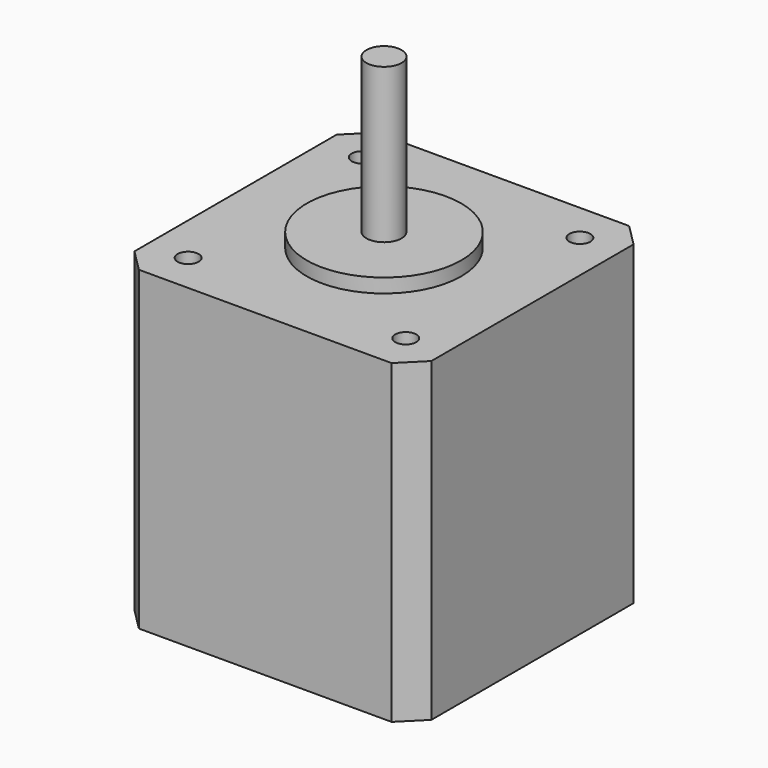
from build123d import *

# Parameters (mm, degrees)
PAD_DEPTH    = 40
SKETCH002_R  = 1.5
PAD001_DEPTH = 5
SKETCH003_R  = 11
PAD002_DEPTH = 2
SKETCH004_R  = 2.5
PAD003_DEPTH = 22


with BuildPart() as part:
    # Sketch001 → Pad (new body)
    with BuildSketch(Plane.XY):
        Polygon((3.15, 0), (0, 3.15), (0, 39.15), (3.15, 42.3), (39.15, 42.3), (42.3, 39.15), (42.3, 3.15), (39.15, 0), align=None)
    extrude(amount=PAD_DEPTH)

    # Sketch002 → Pad001 (new body)
    with BuildSketch(Plane.XY.offset(40)):
        Polygon((3.15, 0), (0, 3.15), (0, 39.15), (3.15, 42.3), (39.15, 42.3), (42.3, 39.15), (42.3, 3.15), (39.15, 0), align=None)
        with Locations((5.65, 36.65)):
            Circle(SKETCH002_R, mode=Mode.SUBTRACT)
        with Locations((36.65, 36.65)):
            Circle(SKETCH002_R, mode=Mode.SUBTRACT)
        with Locations((36.65, 5.65)):
            Circle(SKETCH002_R, mode=Mode.SUBTRACT)
        with Locations((5.65, 5.65)):
            Circle(SKETCH002_R, mode=Mode.SUBTRACT)
    extrude(amount=PAD001_DEPTH)

    # Sketch003 → Pad002 (new body)
    with BuildSketch(Plane.XY.offset(45)):
        with Locations((21.15, 21.15)):
            Circle(SKETCH003_R)
    extrude(amount=PAD002_DEPTH)

    # Sketch004 → Pad003 (new body)
    with BuildSketch(Plane.XY.offset(47)):
        with Locations((21.15, 21.15)):
            Circle(SKETCH004_R)
    extrude(amount=PAD003_DEPTH)


solid = part.part
